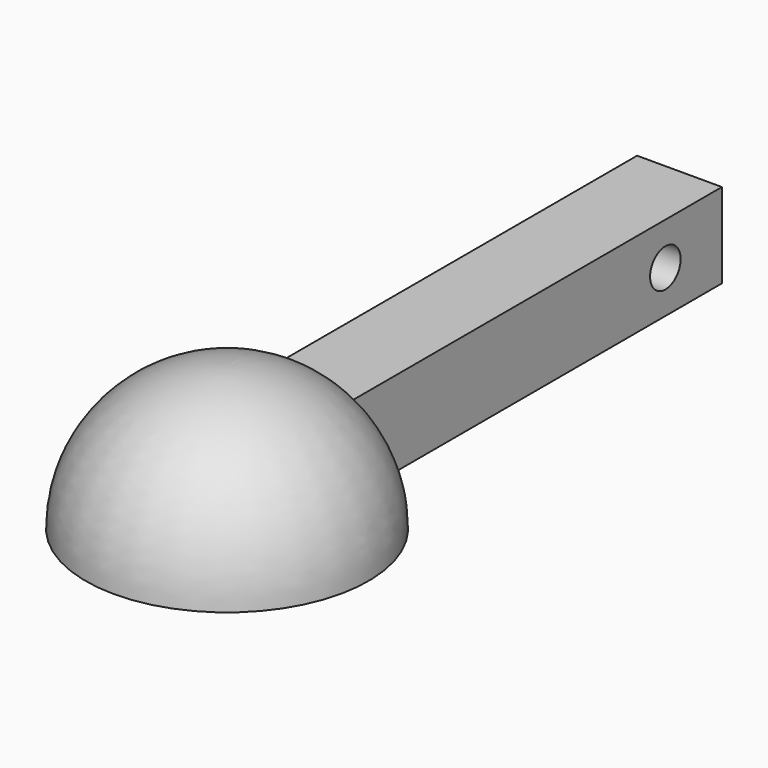
from build123d import *

# Parameters (mm, degrees)
SKETCH_W     = 40
SKETCH_H     = 6
PAD_DEPTH    = 3
SKETCH002_R  = 1.35
POCKET_DEPTH = 6
CHAMFER_SIZE = 1


with BuildPart() as revolution:
    # Sketch001 → Revolution (revolve)
    with BuildSketch(Plane.YZ):
        with BuildLine():
            ThreePointArc((10, 0), (7.071068, 7.071068), (0, 10))
            Line((0, 10), (0, 9))
            ThreePointArc((9, 0), (6.363961, 6.363961), (0, 9))
            Line((9, 0), (10, 0))
        make_face()
    revolve(axis=Axis((0, 0, 0), (0, 0, 1)))


with BuildPart() as sphere:
    # Sphere → Sphere (revolve)
    with BuildSketch(Plane.XZ):
        with BuildLine():
            ThreePointArc((0, -10), (10, 0), (0, 10))
            Line((0, 10), (0, -10))
        make_face()
    revolve(axis=Axis((0, 0, 0), (0, 0, 1)))


with BuildPart() as chamfer_body:
    # Sketch → Pad (new body, symmetric)
    with BuildSketch(Plane.YZ):
        with Locations((20, 3)):
            Rectangle(SKETCH_W, SKETCH_H)
    extrude(amount=PAD_DEPTH, both=True)

    # Cut: cut Sphere
    add(sphere.part, mode=Mode.SUBTRACT)

    # Fusion: union Revolution
    add(revolution.part)

    # Sketch002 → Pocket (cut)
    with BuildSketch(Plane(origin=(-3, 0, 0), x_dir=(0, -1, 0), z_dir=(-1, 0, 0))):
        with Locations((-35, 3)):
            Circle(SKETCH002_R)
    extrude(amount=-POCKET_DEPTH, mode=Mode.SUBTRACT)

    # Chamfer
    chamfer_edges = [chamfer_body.edges().sort_by_distance(p)[0] for p in [
        (-3, 36.35, 3),
    ]]
    chamfer(chamfer_edges, length=CHAMFER_SIZE)


solid = chamfer_body.part
